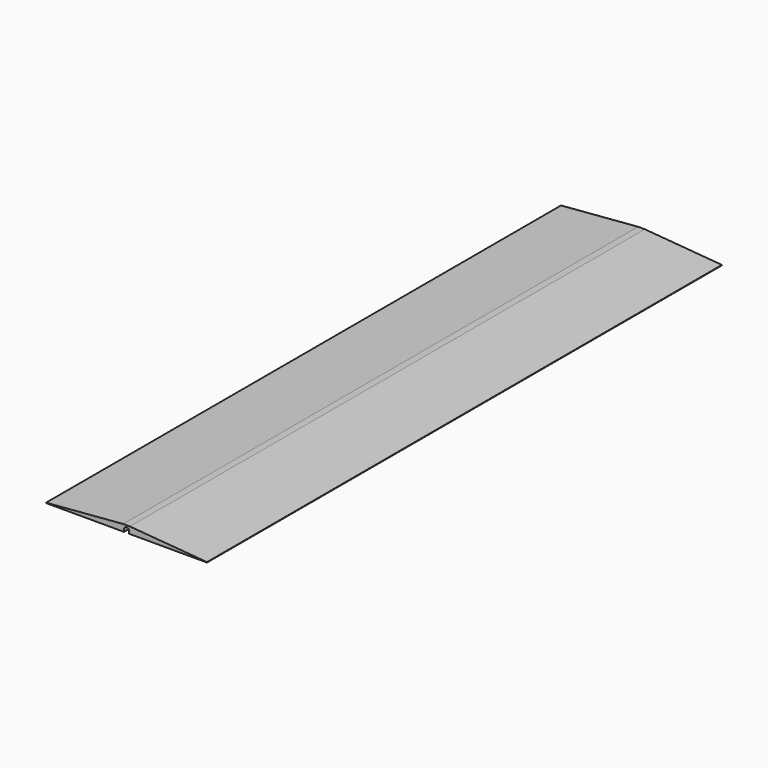
from build123d import *

# Parameters (mm, degrees)
F1_DEPTH = 609.6


with BuildPart() as f1:
    # F0 (on Front) → F1 (new body, symmetric)
    with BuildSketch(Plane.XZ):
        with BuildLine():
            Line((0, 9.525), (0, 12.7))
            Line((0, 12.7), (-6.35, 12.7))
            Line((-6.35, 12.7), (-152.4, 0.762))
            Line((-152.4, 0.762), (-152.4, 0))
            Line((-152.4, 0), (-4.7625, 0))
            Line((-4.7625, 0), (-4.7625, 4.7625))
            ThreePointArc((-4.7625, 4.7625), (-3.367596, 8.130096), (0, 9.525))
        make_face()
        with BuildLine():
            Line((6.35, 12.7), (0, 12.7))
            Line((0, 12.7), (0, 9.525))
            ThreePointArc((0, 9.525), (3.367596, 8.130096), (4.7625, 4.7625))
            Line((4.7625, 4.7625), (4.7625, 0))
            Line((4.7625, 0), (152.4, 0))
            Line((152.4, 0), (152.4, 0.762))
            Line((152.4, 0.762), (6.35, 12.7))
        make_face()
    extrude(amount=F1_DEPTH, both=True)


solid = f1.part
